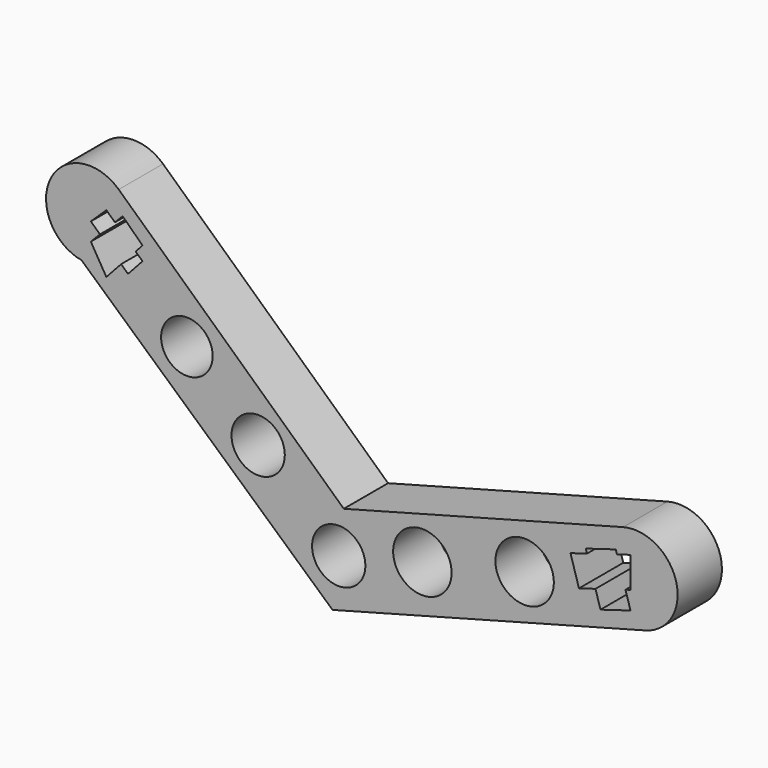
from build123d import *

# Parameters (mm, degrees)
F0_R     = 2.6889277986
F0_R_2   = 2.6889267701
F0_R_3   = 2.9488881839
F0_R_4   = 2.9488879864
F0_R_5   = 2.6011976918
F1_DEPTH = 5.588
F3_DEPTH = 25.4


with BuildPart() as f1:
    # F0 (on Front) → F1 (new body)
    with BuildSketch(Plane.XZ):
        with BuildLine():
            ThreePointArc((-34.0713728219, 11.7218019441), (-40.9395154656, 10.4671499448), (-37.822348997, 4.2198458686))
            Line((-37.822348997, 4.2198458686), (-34.0713728219, 11.7218019441))
        make_face()
        Polygon((-34.0713728219, 11.7218019441), (-37.822348997, 4.2198458686), (-12.5032570213, -18.5985965654), (19.06747045, -10.1588992402), (16.8104494119, -1.715966592), (-11.3692423152, -9.2491496367), align=None)
        with Locations((-11.8780927733, -13.5972965509)):
            Circle(F0_R, mode=Mode.SUBTRACT)
        with Locations((-20.0052093714, -6.4079230651)):
            Circle(F0_R_2, mode=Mode.SUBTRACT)
        with Locations((-3.438394051, -11.4092258736)):
            Circle(F0_R_3, mode=Mode.SUBTRACT)
        with Locations((6.8767941557, -8.9085744694)):
            Circle(F0_R_4, mode=Mode.SUBTRACT)
        with Locations((-27.1945819259, 0)):
            Circle(F0_R_5, mode=Mode.SUBTRACT)
        with BuildLine():
            Line((16.8104494119, -1.715966592), (19.06747045, -10.1588992402))
            ThreePointArc((19.06747045, -10.1588992402), (22.160426255, -4.8089223971), (16.8104494119, -1.715966592))
        make_face()
    extrude(amount=F1_DEPTH)

    # F2 (on Front) → F3 (cut)
    with BuildSketch(Plane.XZ):
        Polygon((-35.3193406819, 9.4794718295), (-36.8846058846, 7.970822975), (-35.9618117305, 7.1249280665), (-34.4489463628, 8.6816101182), align=None)
        Polygon((-34.4489463628, 8.6816101182), (-35.9618117305, 7.1249280665), (-35.1397266359, 6.371349825), (-33.6735424516, 7.970822975), align=None)
        Polygon((-35.1397266359, 6.371349825), (-35.9618117305, 7.1249280665), (-36.8846058846, 6.1754072912), (-35.3193406819, 3.5459571188), (-33.8299627405, 5.1707325415), align=None)
        Polygon((-33.6735424516, 7.970822975), (-35.1397266359, 6.371349825), (-33.8299627405, 5.1707325415), (-32.3637785563, 6.7702056915), align=None)
        Polygon((-33.6735424516, 9.4794718295), (-34.4489463628, 8.6816101182), (-33.6735424516, 7.970822975), (-32.3637785563, 6.7702056915), (-31.6674455253, 7.5298414853), align=None)
        Polygon((-32.3637785563, 6.7702056915), (-33.8299627405, 5.1707325415), (-33.1336297095, 4.5324270613), (-31.6674455253, 6.1319002114), align=None)
        Polygon((13.1682306579, -5.2511854432), (11.5020675585, -5.7510342449), (12.3573635848, -8.6020217302), (14.0235266842, -8.1021729286), align=None)
        Polygon((13.0457678887, -4.8429761082), (13.1682306579, -5.2511854432), (16.1950918896, -4.3431273065), (16.0726291205, -3.9349179715), align=None)
        Polygon((16.1950918896, -4.3431273065), (13.1682306579, -5.2511854432), (14.0235266842, -8.1021729286), (17.0503879159, -7.1941147919), align=None)
        Polygon((17.555790022, -3.9349179715), (16.1950918896, -4.3431273065), (17.0503879159, -7.1941147919), (17.555790022, -7.0424941989), align=None)
        Polygon((17.0503879159, -7.1941147919), (14.0235266842, -8.1021729286), (14.5289287902, -9.7868470475), (17.555790022, -8.8787889108), align=None)
    extrude(amount=F3_DEPTH, mode=Mode.SUBTRACT)


solid = f1.part
